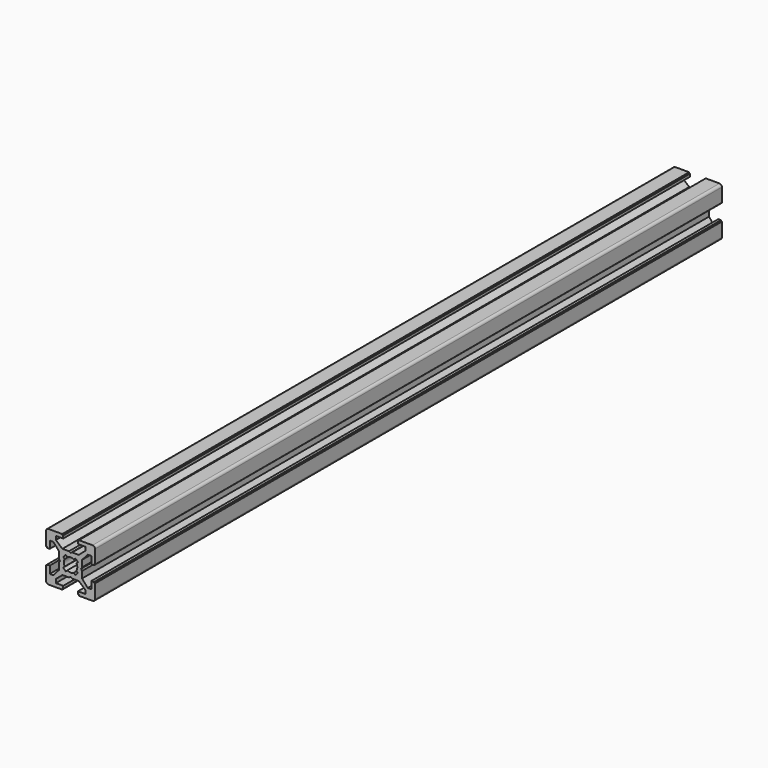
from build123d import *

# Parameters (mm, degrees)
PAD_DEPTH          = 320
POCKET_DEPTH       = 380
POLARPATTERN_COUNT = 4
POCKET001_DEPTH    = 380


with BuildPart() as part:
    # Sketch → Pad (new body)
    with BuildSketch(Plane.XZ):
        with BuildLine():
            Line((-9, 10), (9, 10))
            ThreePointArc((10, 9), (9.707107, 9.707107), (9, 10))
            Line((10, 9), (10, -9))
            ThreePointArc((9, -10), (9.707107, -9.707107), (10, -9))
            Line((9, -10), (-9, -10))
            ThreePointArc((-10, -9), (-9.707107, -9.707107), (-9, -10))
            Line((-10, -9), (-10, 9))
            ThreePointArc((-9, 10), (-9.707107, 9.707107), (-10, 9))
        make_face()
    extrude(amount=PAD_DEPTH)

    # Sketch001 (on Face10 of Pad) → Pocket (cut)
    with BuildSketch(Plane.XZ.offset(320)):
        Polygon((-3.4, 10), (-3.4, 9.6), (-3, 9.6), (-3, 8.5), (-6, 8.5), (-6, 7), (-3.35, 4.7), (-0.65, 4.7), (0, 4.3), (0.65, 4.7), (3.35, 4.7), (6, 7), (6, 8.5), (3, 8.5), (3, 9.6), (3.4, 9.6), (3.4, 10), align=None)
    pocket = extrude(amount=-POCKET_DEPTH, mode=Mode.SUBTRACT)

    # PolarPattern: Pocket ×4 about axis
    polarpattern_axis = Axis((0, -320, 0), (0, -1, 0))
    for i in range(1, POLARPATTERN_COUNT):
        add(pocket.rotate(polarpattern_axis, i * 360 / POLARPATTERN_COUNT), mode=Mode.SUBTRACT)

    # Sketch002 (on Face4 of PolarPattern) → Pocket001 (cut)
    with BuildSketch(Plane.XZ.offset(320)):
        with BuildLine():
            ThreePointArc((1.340499, 2.401159), (0, 2.75), (-1.340499, 2.401159))
            Line((-1.944544, 3.005204), (-1.340499, 2.401159))
            Line((-3.005204, 1.944544), (-1.944544, 3.005204))
            Line((-2.401159, 1.340499), (-3.005204, 1.944544))
            ThreePointArc((-2.401159, 1.340499), (-2.75, 0), (-2.401159, -1.340499))
            Line((-3.005204, -1.944544), (-2.401159, -1.340499))
            Line((-1.944544, -3.005204), (-3.005204, -1.944544))
            Line((-1.340499, -2.401159), (-1.944544, -3.005204))
            ThreePointArc((-1.340499, -2.401159), (0, -2.75), (1.340499, -2.401159))
            Line((1.944544, -3.005204), (1.340499, -2.401159))
            Line((3.005204, -1.944544), (1.944544, -3.005204))
            Line((2.401159, -1.340499), (3.005204, -1.944544))
            ThreePointArc((2.401159, -1.340499), (2.75, 0), (2.401159, 1.340499))
            Line((2.401159, 1.340499), (3.005204, 1.944544))
            Line((3.005204, 1.944544), (1.944544, 3.005204))
            Line((1.944544, 3.005204), (1.340499, 2.401159))
        make_face()
    extrude(amount=-POCKET001_DEPTH, mode=Mode.SUBTRACT)


solid = part.part
